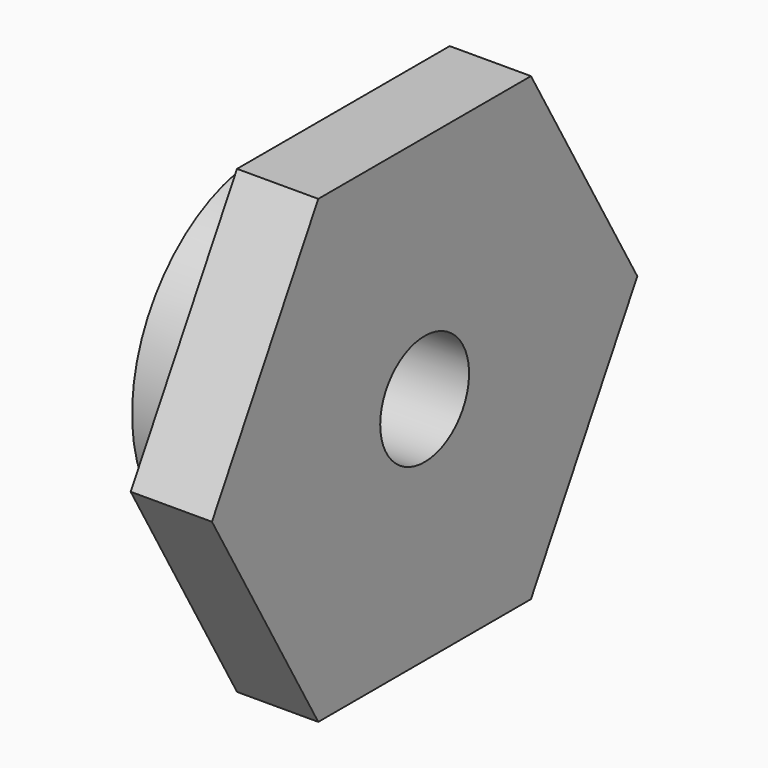
from build123d import *

# Parameters (mm, degrees)
F0_R     = 6
F1_DEPTH = 3
F3_DEPTH = 3
F5_D     = 4.1


with BuildPart() as f1:
    # F0 (on Right) → F1 (new body)
    with BuildSketch(Plane.YZ):
        Circle(F0_R)
    extrude(amount=F1_DEPTH)

    # F2 (on face) → F3 (join)
    with BuildSketch(Plane.YZ.offset(3)):
        Polygon((4.9074772881, 8.5), (-4.9074772881, 8.5), (-9.8149545762, 0), (-4.9074772881, -8.5), (4.9074772881, -8.5), (9.8149545762, 0), align=None)
    extrude(amount=F3_DEPTH)

    # F5 (through all)
    with Locations(Plane.YZ.offset(6)):
        with Locations((0, 0)):
            Hole(F5_D / 2)


solid = f1.part
